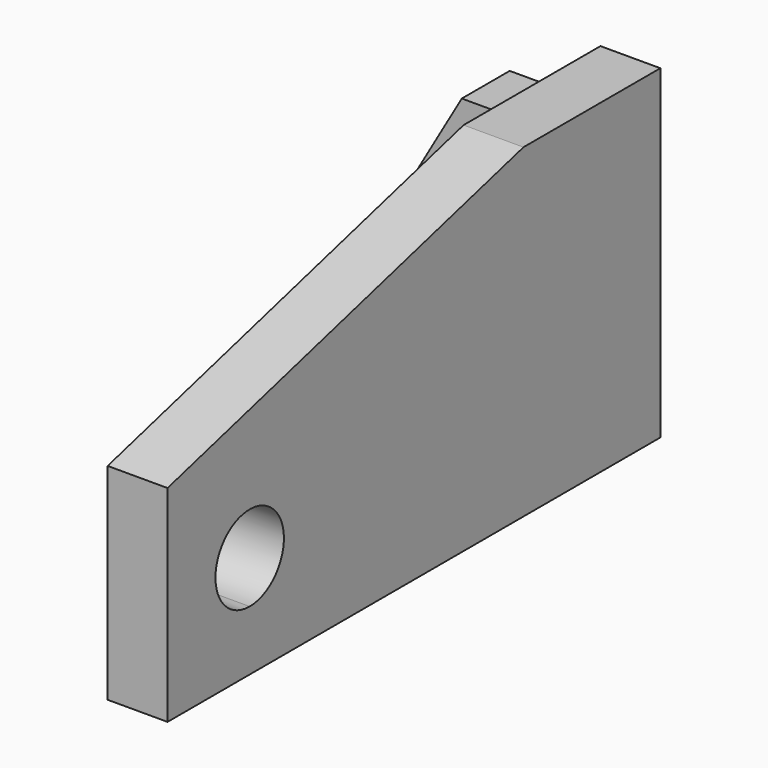
from build123d import *

# Parameters (mm, degrees)
F0_W     = 33.3375
F0_H     = 11.1125
F0_W_2   = 11.1125
F1_DEPTH = 11.1125
F2_W     = 11.1125
F2_H     = 60.325
F3_DEPTH = 103.1875
F6_DEPTH = 25.4
F5_W     = 52.3875
F5_H     = 11.2454069465
F7_DEPTH = 33.3375
F9_DEPTH = 25.4


with BuildPart() as f1:
    # F0 (on Front) → F1 (new body)
    with BuildSketch(Plane.XZ):
        Polygon((-49.5353981066, -0.1329069465), (-16.1978981066, -0.1329069465), (-16.1978981066, 39.5545930535), (-33.0376141645, 39.5545930535), (-49.5353981066, 10.9795930535), align=None)
        with Locations((-32.8666481066, -5.6891569465)):
            Rectangle(F0_W, F0_H)
        with Locations((-10.6416481066, -5.6891569465)):
            Rectangle(F0_W_2, F0_H)
        Polygon((-16.1978981066, -0.1329069465), (-5.0853981066, -0.1329069465), (-5.0853981066, 49.0795930535), (-16.1978981066, 49.0795930535), (-16.1978981066, 39.5545930535), align=None)
    extrude(amount=F1_DEPTH)

    # F2 (on face) → F3 (join)
    with BuildSketch(Plane.XZ.offset(11.1125)):
        with Locations((-10.6416481066, 18.9170930535)):
            Rectangle(F2_W, F2_H)
    extrude(amount=F3_DEPTH)

    # F4 (on face) → F6 (cut)
    with BuildSketch(Plane(origin=(-16.1978981066, 0, 0), x_dir=(0, -1, 0), z_dir=(-1, 0, 0))):
        Polygon((114.3, 49.0795930535), (31.75, 49.0795930535), (114.3, 26.9603872183), align=None)
        with BuildLine():
            ThreePointArc((103.1875, 7.8045930535), (89.6373399243, 13.4172531291), (95.25, -0.1329069465))
            ThreePointArc((95.25, -0.1329069465), (100.8626600757, 2.1919329778), (103.1875, 7.8045930535))
        make_face()
    extrude(amount=-F6_DEPTH, mode=Mode.SUBTRACT)

    # F5 (on face) → F7 (join)
    with BuildSketch(Plane(origin=(-16.1978981066, 0, 0), x_dir=(0, -1, 0), z_dir=(-1, 0, 0))):
        with Locations((37.30625, -5.6227034733)):
            Rectangle(F5_W, F5_H)
    extrude(amount=F7_DEPTH)

    # F8 (on face) → F9 (cut)
    with BuildSketch(Plane.XY):
        Polygon((-16.1978981066, -63.5), (-49.5353981066, -11.1125), (-49.5353981066, -63.5), align=None)
    extrude(amount=-F9_DEPTH, mode=Mode.SUBTRACT)


solid = f1.part
